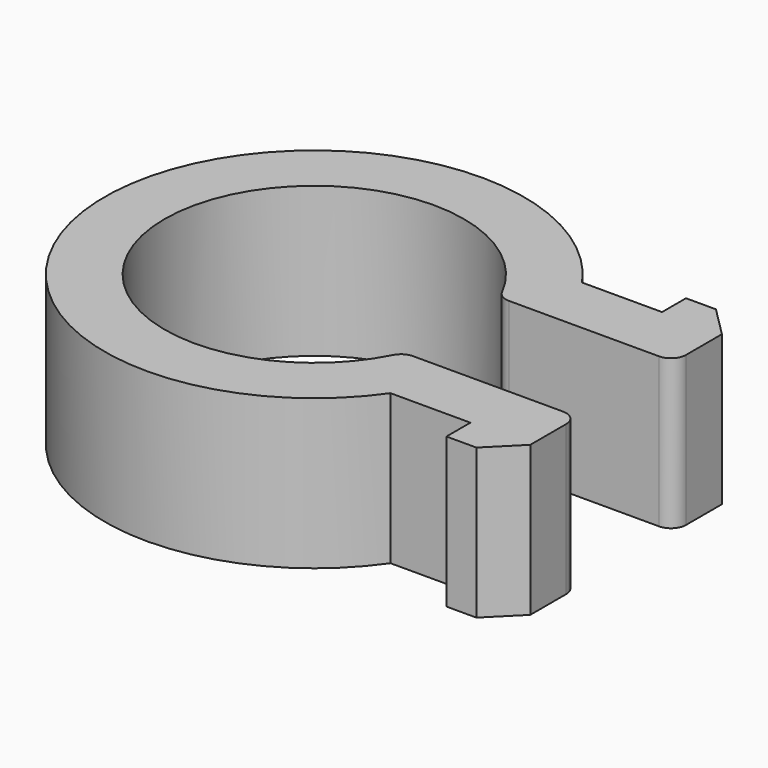
from build123d import *

# Parameters (mm, degrees)
F1_DEPTH = 5
F2_R     = 0.5
F3_SIZE  = 1


with BuildPart() as f1:
    # F0 (on Top) → F1 (new body)
    with BuildSketch(Plane.XY):
        with BuildLine():
            ThreePointArc((4.582576, -2), (-5, 0), (4.582576, 2))
            Line((4.582576, 2), (10.41389, 2))
            Line((10.41389, 2), (10.41389, 5))
            Line((10.41389, 5), (8.41389, 5))
            Line((8.41389, 5), (8.41389, 4))
            Line((8.41389, 4), (5.744563, 4))
            ThreePointArc((5.744563, 4), (-7, 0), (5.744563, -4))
            Line((5.744563, -4), (8.41389, -4))
            Line((8.41389, -4), (8.41389, -5))
            Line((8.41389, -5), (10.41389, -5))
            Line((10.41389, -5), (10.41389, -2))
            Line((10.41389, -2), (4.582576, -2))
        make_face()
    extrude(amount=F1_DEPTH)

    # F2
    f2_edges = [f1.edges().sort_by_distance(p)[0] for p in [
        (10.41389, 2, 2.5),
        (4.582576, 2, 2.5),
        (4.582576, -2, 2.5),
        (10.41389, -2, 2.5),
    ]]
    fillet(f2_edges, radius=F2_R)

    # F3
    f3_edges = [f1.edges().sort_by_distance(p)[0] for p in [
        (10.41389, -5, 2.5),
        (10.41389, 5, 2.5),
    ]]
    chamfer(f3_edges, length=F3_SIZE)


solid = f1.part
